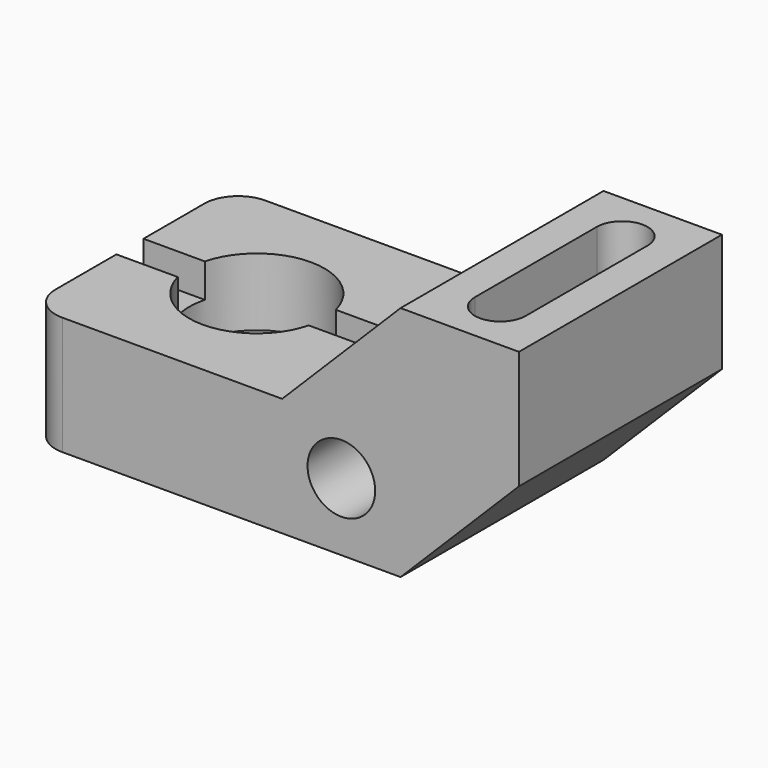
from build123d import *

# Parameters (mm, degrees)
F0_R           = 10.16
F1_DEPTH       = 76.2
F2_R           = 10.16
F3_W           = 10.16
F3_H           = 10.16
F5_DEPTH       = 76.2
F7_DEPTH       = 27.94
F8_D           = 15.24
F8_START       = 10.16
F8_CBORE_D     = 40.64
F8_CBORE_DEPTH = 10.16


with BuildPart() as f1:
    # F0 (on Front) → F1 (new body)
    with BuildSketch(Plane.XZ):
        Polygon((-111.76, 35.56), (-111.76, 0), (0, 0), (35.56, 35.56), (35.56, 71.12), (0, 71.12), (-35.56, 35.56), align=None)
        with Locations((-17.78, 20.32)):
            Circle(F0_R, mode=Mode.SUBTRACT)
    extrude(amount=F1_DEPTH)

    # F2
    f2_edges = [f1.edges().sort_by_distance(p)[0] for p in [
        (-111.76, -76.2, 17.78),
        (-111.76, 0, 17.78),
    ]]
    fillet(f2_edges, radius=F2_R)

    # F3 (on face) → F5 (cut)
    with BuildSketch(Plane(origin=(-111.76, 0, 0), x_dir=(0, -1, 0), z_dir=(-1, 0, 0))):
        with Locations((38.1, 30.48)):
            Rectangle(F3_W, F3_H)
    extrude(amount=-F5_DEPTH, mode=Mode.SUBTRACT)

    # F6 (on face) → F7 (cut)
    with BuildSketch(Plane.XY.offset(71.12)):
        with BuildLine():
            ThreePointArc((10.16, -60.96), (17.78, -68.58), (25.4, -60.96))
            Line((25.4, -60.96), (25.4, -15.24))
            ThreePointArc((25.4, -15.24), (17.78, -7.62), (10.16, -15.24))
            Line((10.16, -15.24), (10.16, -60.96))
        make_face()
    extrude(amount=-F7_DEPTH, mode=Mode.SUBTRACT)

    # F8 (through all)
    # its depths count from where the whole tool has entered the part; down to there all is cleared
    with Locations(Plane.XY.offset(35.56).offset(-F8_START)):
        with Locations((-73.66, -38.1)):
            CounterBoreHole(F8_D / 2, F8_CBORE_D / 2, F8_CBORE_DEPTH)


solid = f1.part
